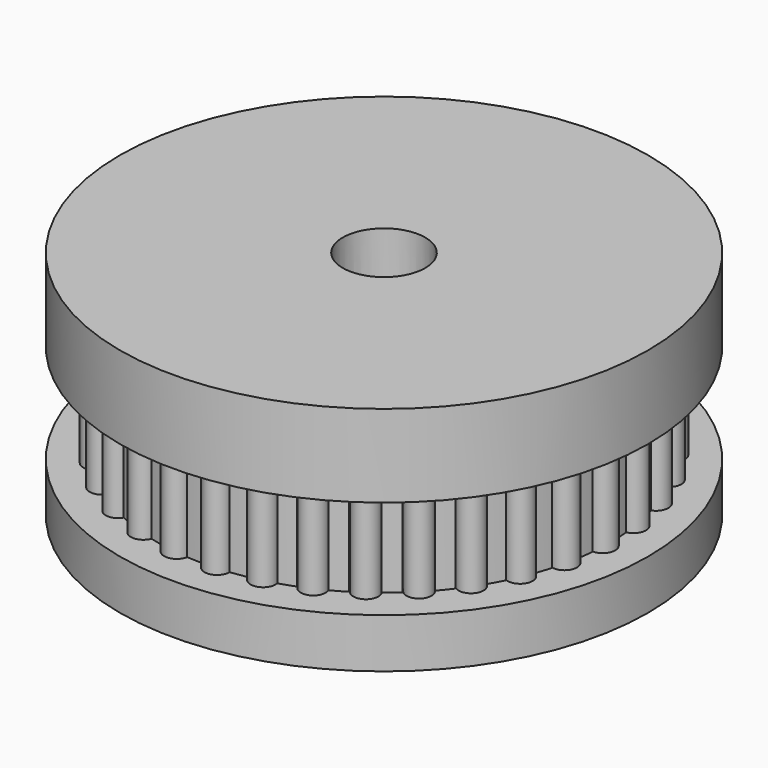
from build123d import *

# Parameters (mm, degrees)
SKETCH_R           = 16
PAD_DEPTH          = 3
PAD001_DEPTH       = 6
POLARPATTERN_COUNT = 34
SKETCH002_R        = 16
PAD002_DEPTH       = 5
SKETCH003_R        = 2.5
POCKET_DEPTH       = 14.001


with BuildPart() as part:
    # Sketch → Pad (new body)
    with BuildSketch(Plane.XY):
        Circle(SKETCH_R)
    extrude(amount=PAD_DEPTH)

    # Sketch001 → Pad001 (new body)
    with BuildSketch(Plane.XY.offset(3)):
        with BuildLine():
            Line((0, 0), (2.487216, 13.4723))
            ThreePointArc((2.487216, 13.4723), (1.829745, 14.283278), (0.989055, 13.664252))
            ThreePointArc((0.989055, 13.664252), (0.49485, 13.69106), (0, 13.7))
            Line((0, 13.7), (0, 0))
        make_face()
    pad001 = extrude(amount=PAD001_DEPTH)

    # PolarPattern: Pad001 ×34 about axis
    polarpattern_axis = Axis((0, 0, 3), (0, 0, 1))
    for i in range(1, POLARPATTERN_COUNT):
        add(pad001.rotate(polarpattern_axis, i * 360 / POLARPATTERN_COUNT))

    # Sketch002 → Pad002 (new body)
    with BuildSketch(Plane.XY.offset(9)):
        Circle(SKETCH002_R)
    extrude(amount=PAD002_DEPTH)

    # Sketch003 → Pocket (cut, through all)
    with BuildSketch(Plane(origin=(0, 0, 0), x_dir=(1, 0, 0), z_dir=(0, 0, -1))):
        Circle(SKETCH003_R)
    extrude(amount=-POCKET_DEPTH, mode=Mode.SUBTRACT)


solid = part.part
